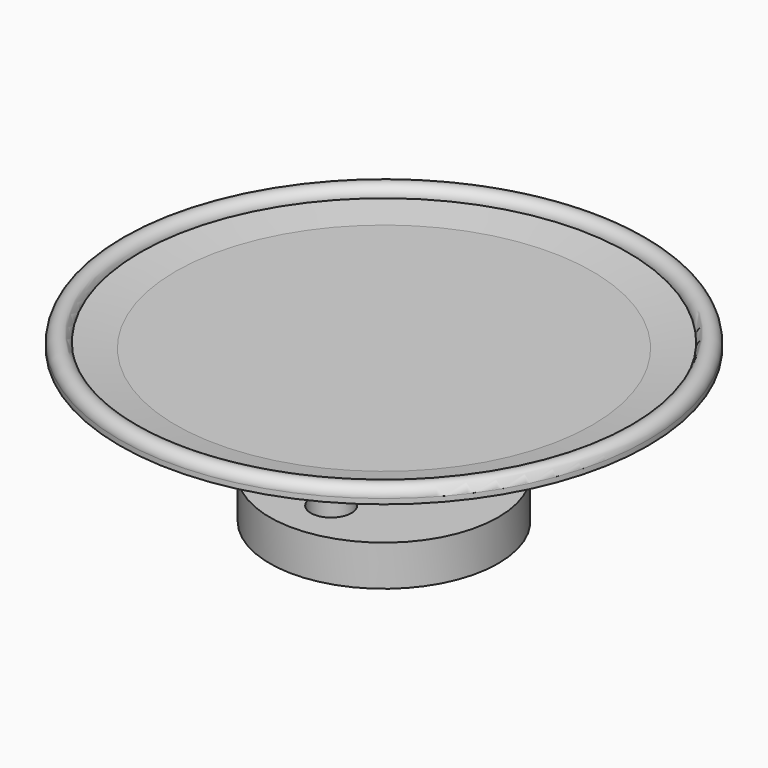
from build123d import *

# Parameters (mm, degrees)
F0_R     = 11.25
F1_DEPTH = 4
F2_R     = 4.5
F3_DEPTH = 6
F6_R     = 2
F7_DEPTH = 4


with BuildPart() as f1:
    # F0 (on Top) → F1 (new body)
    with BuildSketch(Plane.XY):
        Circle(F0_R)
    extrude(amount=F1_DEPTH)

    # F2 (on face) → F3 (join)
    with BuildSketch(Plane.XY.offset(4)):
        Circle(F2_R)
    extrude(amount=F3_DEPTH)

    # F4 (on Front) → F5 (revolve)
    with BuildSketch(Plane.XZ):
        with BuildLine():
            Line((20.5, 15), (0, 15))
            Line((0, 15), (0, 10))
            Line((0, 10), (4.5, 10))
            Line((4.5, 10), (26, 15))
            Line((26, 15), (26, 15.5))
            ThreePointArc((26, 15.5), (25, 16.5), (24, 15.5))
            Line((24, 15.5), (20.5, 15))
        make_face()
    revolve(axis=Axis((0, 0, 19.201497), (0, 0, 1)))

    # F6 (on face) → F7 (cut, through all)
    with BuildSketch(Plane(origin=(0, 0, 0), x_dir=(1, 0, 0), z_dir=(0, 0, -1))):
        with Locations((-5.629165, -3.25)):
            Circle(F6_R)
        with Locations((5.629165, -3.25)):
            Circle(F6_R)
        with Locations((0, 6.5)):
            Circle(F6_R)
    extrude(amount=-F7_DEPTH, mode=Mode.SUBTRACT)


solid = f1.part
